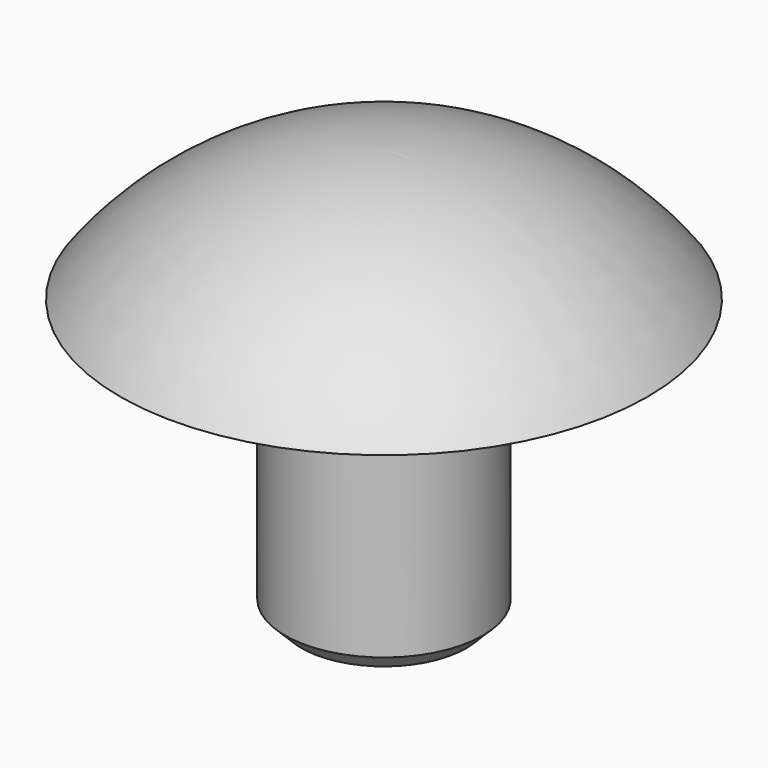
from build123d import *

# Parameters (mm, degrees)
F2_SIZE = 1


with BuildPart() as f1:
    # F0 (on Front) → F1 (revolve)
    with BuildSketch(Plane.XZ):
        with BuildLine():
            Line((0, 8), (0, -17))
            Line((0, -17), (6, -17))
            Line((6, -17), (6, 0))
            Line((6, 0), (16, 0))
            ThreePointArc((16, 0), (8.944272, 5.888544), (0, 8))
        make_face()
    revolve(axis=Axis((0, 0, -4.5), (0, 0, -1)))

    # F2
    f2_edges = [f1.edges().sort_by_distance(p)[0] for p in [
        (-6, 0, -17),
    ]]
    chamfer(f2_edges, length=F2_SIZE)


solid = f1.part
